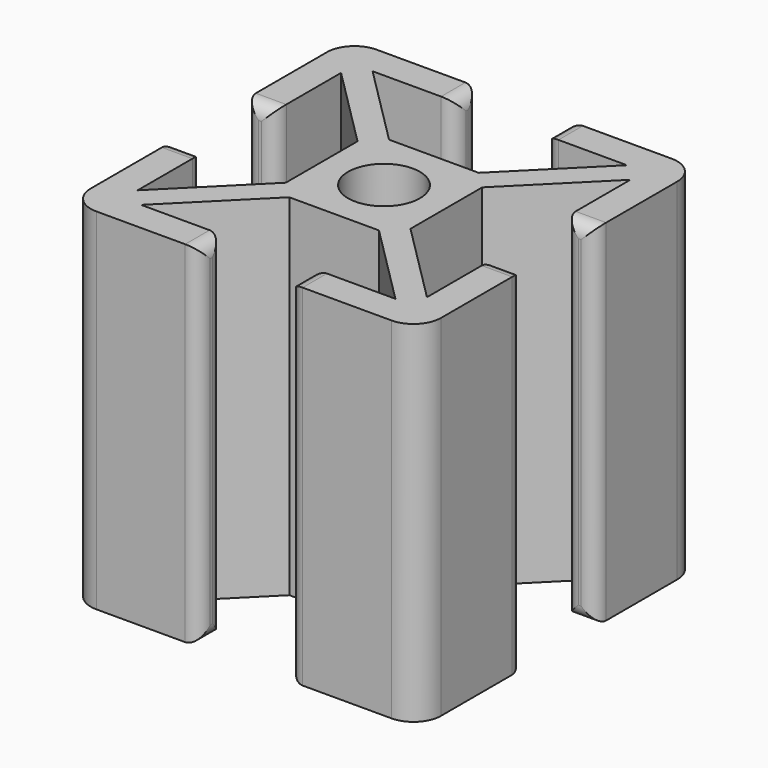
from build123d import *

# Parameters (mm, degrees)
SKETCH_W     = 25.4
SKETCH_H     = 25.4
SKETCH_R     = 2.6035
PAD_DEPTH    = 25.4
POCKET_DEPTH = 25.401
FILLET_R     = 1.0049
FILLET001_R  = 2


with BuildPart() as part:
    # Sketch → Pad (new body)
    with BuildSketch(Plane.XY):
        Rectangle(SKETCH_W, SKETCH_H)
        Circle(SKETCH_R, mode=Mode.SUBTRACT)
    extrude(amount=PAD_DEPTH)

    # Sketch001 (on Face7 of Pad) → Pocket (cut, through all)
    with BuildSketch(Plane.XY.offset(25.4)):
        Polygon((-3.2512, 12.7), (3.2512, 12.7), (3.2512, 10.4902), (9.2202, 10.4902), (3.2512, 4.5212), (-3.2512, 4.5212), (-9.2202, 10.4902), (-3.2512, 10.4902), align=None)
        Polygon((-4.5212, 3.2512), (-4.5212, -3.2512), (-10.4902, -9.2202), (-10.4902, -3.2512), (-12.7, -3.2512), (-12.7, 3.2512), (-10.4902, 3.2512), (-10.4902, 9.2202), align=None)
        Polygon((4.5212, 3.2512), (4.5212, -3.2512), (10.4902, -9.2202), (10.4902, -3.2512), (12.7, -3.2512), (12.7, 3.2512), (10.4902, 3.2512), (10.4902, 9.2202), align=None)
        Polygon((3.2512, -4.5212), (-3.2512, -4.5212), (-9.2202, -10.4902), (-3.2512, -10.4902), (-3.2512, -12.7), (3.2512, -12.7), (3.2512, -10.4902), (9.2202, -10.4902), align=None)
    extrude(amount=-POCKET_DEPTH, mode=Mode.SUBTRACT)

    # Fillet
    fillet_edges = [part.edges().sort_by_distance(p)[0] for p in [
        (-11.5951, 3.2512, 25.4),
        (-10.4902, 3.2512, 12.7),
        (-11.5951, 3.2512, 0),
        (-12.7, 3.2512, 12.7),
        (11.5951, 3.2512, 25.4),
        (10.4902, 3.2512, 12.7),
        (11.5951, 3.2512, 0),
        (12.7, 3.2512, 12.7),
        (11.5951, -3.2512, 25.4),
        (10.4902, -3.2512, 12.7),
        (11.5951, -3.2512, 0),
        (12.7, -3.2512, 12.7),
        (-11.5951, -3.2512, 25.4),
        (-10.4902, -3.2512, 12.7),
        (-11.5951, -3.2512, 0),
        (-12.7, -3.2512, 12.7),
        (-3.2512, 11.5951, 25.4),
        (-3.2512, 10.4902, 12.7),
        (-3.2512, 11.5951, 0),
        (-3.2512, 12.7, 12.7),
        (3.2512, 11.5951, 25.4),
        (3.2512, 10.4902, 12.7),
        (3.2512, 11.5951, 0),
        (3.2512, 12.7, 12.7),
        (-3.2512, -11.5951, 25.4),
        (-3.2512, -10.4902, 12.7),
        (-3.2512, -11.5951, 0),
        (-3.2512, -12.7, 12.7),
        (3.2512, -11.5951, 25.4),
        (3.2512, -10.4902, 12.7),
        (3.2512, -11.5951, 0),
        (3.2512, -12.7, 12.7),
    ]]
    fillet(fillet_edges, radius=FILLET_R)

    # Fillet001
    fillet001_edges = [part.edges().sort_by_distance(p)[0] for p in [
        (12.7, -12.7, 12.7),
        (12.7, 12.7, 12.7),
        (-12.7, -12.7, 12.7),
        (-12.7, 12.7, 12.7),
    ]]
    fillet(fillet001_edges, radius=FILLET001_R)


solid = part.part
